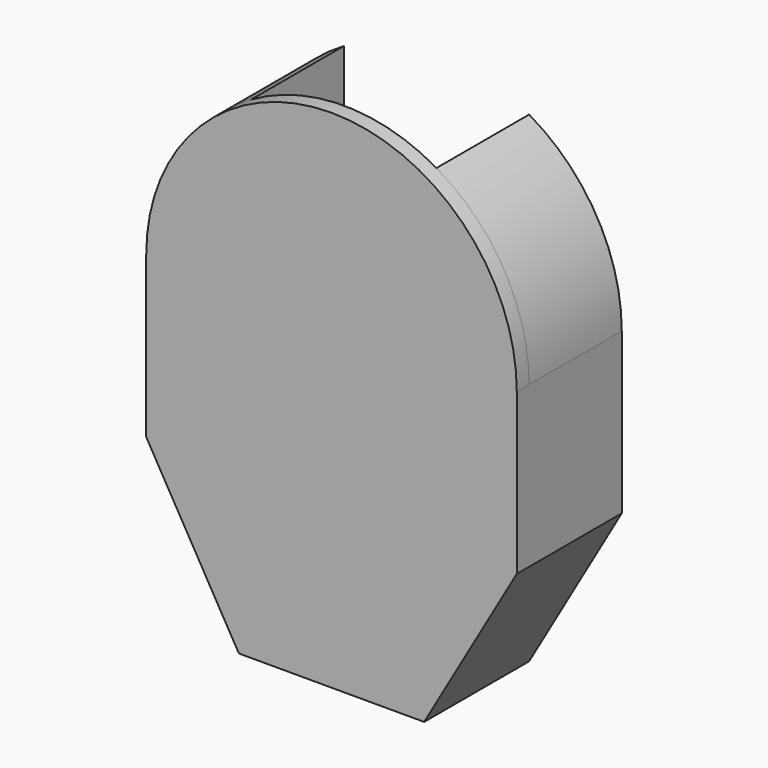
from build123d import *

# Parameters (mm, degrees)
F1_DEPTH = 15
F2_W     = 19
F2_H     = 8
F3_DEPTH = 6
F5_DEPTH = 2
F6_R     = 3


with BuildPart() as f1:
    # F0 (on Front) → F1 (new body)
    with BuildSketch(Plane.XZ):
        Polygon((24, -20.78461), (18, -10.392305), (12, -20.78461), (-12, -20.78461), (-18, -10.392305), (-24, -20.78461), (-12, -41.569219), (12, -41.569219), align=None)
        Polygon((12, -20.78461), (18, -10.392305), (12, 0), (6, -10.392305), (-6, -10.392305), (-12, 0), (-18, -10.392305), (-12, -20.78461), align=None)
        Polygon((-12, 0), (-12, 20.78461), (-24, 0), (-18, -10.392305), align=None)
        Polygon((18, -10.392305), (24, 0), (12, 20.78461), (12, 0), align=None)
        with BuildLine():
            Line((-24, 0), (-12, 20.78461))
            ThreePointArc((-12, 20.78461), (-20.78461, 12), (-24, 0))
        make_face()
        with BuildLine():
            Line((12, 20.78461), (24, 0))
            ThreePointArc((24, 0), (20.78461, 12), (12, 20.78461))
        make_face()
        Polygon((24, -20.78461), (24, 0), (18, -10.392305), align=None)
        Polygon((-18, -10.392305), (-24, 0), (-24, -20.78461), align=None)
    extrude(amount=F1_DEPTH)

    # F2 (on face) → F3 (cut)
    with BuildSketch(Plane(origin=(0, 0, -41.569219), x_dir=(1, 0, 0), z_dir=(0, 0, -1))):
        with Locations((0, 7.5)):
            Rectangle(F2_W, F2_H)
    extrude(amount=-F3_DEPTH, mode=Mode.SUBTRACT)

    # F4 (on face) → F5 (join)
    with BuildSketch(Plane.XZ.offset(15)):
        with BuildLine():
            ThreePointArc((-24, 0), (0, -24), (24, 0))
            ThreePointArc((24, 0), (0, 24), (-24, 0))
        make_face()
        with BuildLine():
            Line((24, -20.78461), (24, 0))
            ThreePointArc((24, 0), (0, -24), (-24, 0))
            Line((-24, 0), (-24, -20.78461))
            Line((-24, -20.78461), (-12, -41.569219))
            Line((-12, -41.569219), (12, -41.569219))
            Line((12, -41.569219), (24, -20.78461))
        make_face()
    extrude(amount=F5_DEPTH)

    # F6
    f6_edges = [f1.edges().sort_by_distance(p)[0] for p in [
        (0, -3.5, -35.569219),
        (-9.5, -7.5, -35.569219),
        (0, -11.5, -35.569219),
        (9.5, -7.5, -35.569219),
    ]]
    fillet(f6_edges, radius=F6_R)


solid = f1.part
